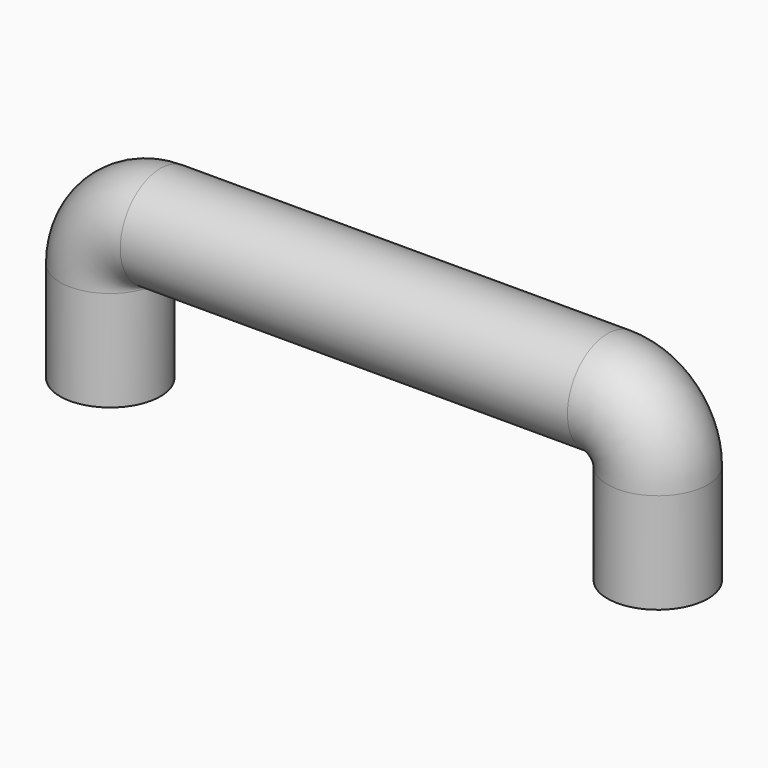
from build123d import *

# Parameters (mm, degrees)
F0_R = 11


with BuildPart() as f2:
    # F2: sweep along a path in F1
    with BuildLine(Plane.XZ) as f2_path:
        Line((0, 0), (0, 22))
        ThreePointArc((0, 22), (-3.221825, 29.778175), (-11, 33))
        Line((-11, 33), (-109, 33))
        ThreePointArc((-109, 33), (-116.778175, 29.778175), (-120, 22))
        Line((-120, 22), (-120, 0))
    # F0 (on Top) → F2 (sweep)
    with BuildSketch(Plane.XY):
        Circle(F0_R)
    sweep(path=f2_path.line)


solid = f2.part
